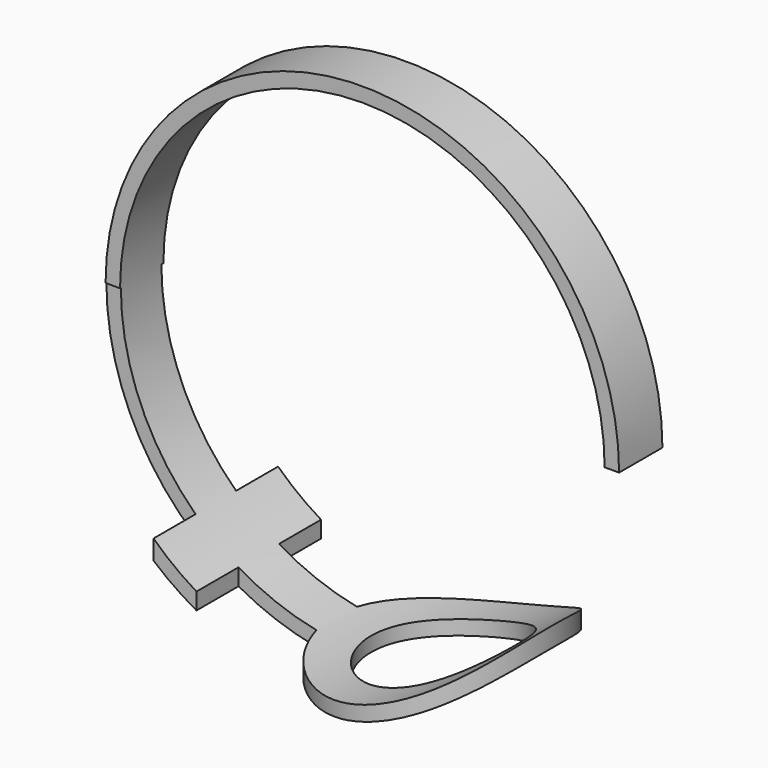
from build123d import *

# Parameters (mm, degrees)
F0_R     = 35.5
F0_R_2   = 33.5
F1_DEPTH = 50.8
F3_DEPTH = 50.8
F4_R     = 10
F5_DEPTH = 50.8
F7_DEPTH = 38.1


with BuildPart() as f1:
    # F0 (on Front) → F1 (new body)
    with BuildSketch(Plane.XZ):
        Circle(F0_R)
        Circle(F0_R_2, mode=Mode.SUBTRACT)
    extrude(amount=F1_DEPTH)

    # F2 (on Top) → F3 (cut)
    with BuildSketch(Plane.XY):
        with BuildLine():
            ThreePointArc((-6.457068, -22.28746), (23.128884, -25.78746), (-6.457068, -29.28746))
            Line((-6.457068, -29.28746), (-13.500003, -29.28746))
            Line((-13.500003, -29.28746), (-17.234227, -29.28746))
            Line((-17.234227, -29.28746), (-17.234227, -36.550397))
            Line((-17.234227, -36.550397), (-23.171365, -36.550397))
            Line((-23.171365, -36.550397), (-23.171365, -29.28746))
            Line((-23.171365, -29.28746), (-37.299089, -29.28746))
            Line((-37.299089, -29.28746), (-37.299089, -59.553057))
            Line((-37.299089, -59.553057), (42.624012, -59.553057))
            Line((42.624012, -59.553057), (42.624012, 5.546404))
            Line((42.624012, 5.546404), (-37.299089, 5.546404))
            Line((-37.299089, 5.546404), (-37.099175, -22.28746))
            Line((-37.099175, -22.28746), (-23.171365, -22.28746))
            Line((-23.171365, -22.28746), (-23.171365, -15.024522))
            Line((-23.171365, -15.024522), (-17.234227, -15.024522))
            Line((-17.234227, -15.024522), (-17.234227, -22.28746))
            Line((-17.234227, -22.28746), (-13.500003, -22.28746))
            Line((-13.500003, -22.28746), (-10.810506, -22.28746))
            Line((-10.810506, -22.28746), (-6.457068, -22.28746))
        make_face()
    extrude(amount=-F3_DEPTH, mode=Mode.SUBTRACT)

    # F4 (on Top) → F5 (cut)
    with BuildSketch(Plane.XY):
        with Locations((8.270558, -25.735088)):
            Circle(F4_R)
    extrude(amount=-F5_DEPTH, mode=Mode.SUBTRACT)

    # F6 (on Right) → F7 (cut, symmetric)
    with BuildSketch(Plane.YZ):
        Polygon((-21.942101, 38.113631), (-21.942101, 0), (-21.942101, -4.419958), (6.513468, -3.371595), (6.513468, 37.065268), align=None)
        Polygon((-29.430408, 0), (-29.430408, 39.161991), (-57.436682, 38.113631), (-57.436682, 0), align=None)
    extrude(amount=F7_DEPTH, both=True, mode=Mode.SUBTRACT)


solid = f1.part
